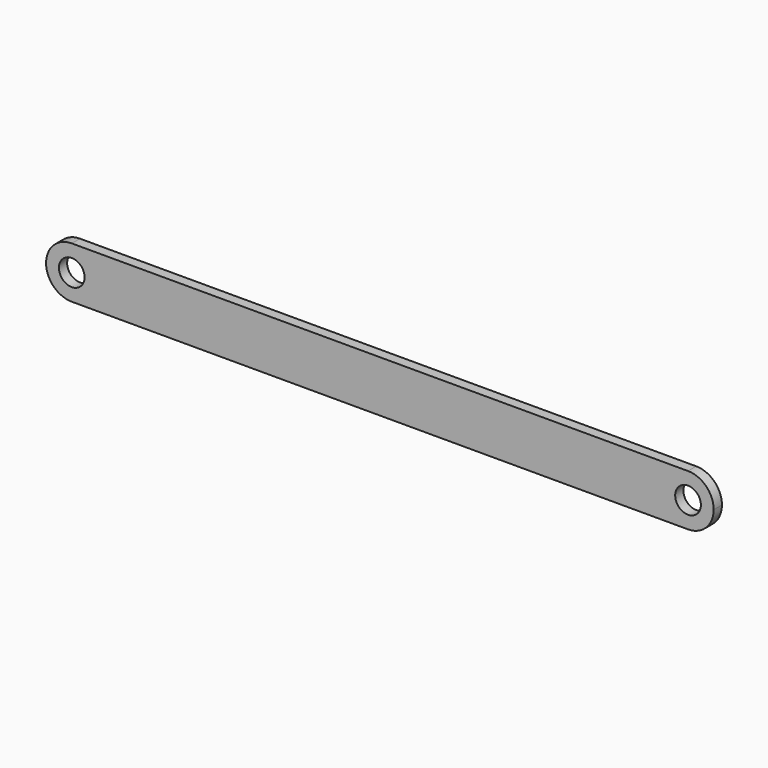
from build123d import *

# Parameters (mm, degrees)
F1_DEPTH = 2.54
F2_R     = 3.175
F3_DEPTH = 2.541


with BuildPart() as f1:
    # F0 (on Front) → F1 (new body)
    with BuildSketch(Plane.XZ):
        with BuildLine():
            ThreePointArc((-101.485908, 1.260738), (-99.626036, -3.22939), (-95.135908, -5.089262))
            Line((-95.135908, -5.089262), (57.264092, -5.089262))
            ThreePointArc((57.264092, -5.089262), (61.75422, -3.22939), (63.614092, 1.260738))
            ThreePointArc((63.614092, 1.260738), (61.75422, 5.750866), (57.264092, 7.610738))
            Line((57.264092, 7.610738), (-95.135908, 7.610738))
            ThreePointArc((-95.135908, 7.610738), (-99.626036, 5.750866), (-101.485908, 1.260738))
        make_face()
    extrude(amount=F1_DEPTH)

    # F2 (on face) → F3 (cut, through all)
    with BuildSketch(Plane.XZ.offset(2.54)):
        with Locations((-95.135908, 1.260738)):
            Circle(F2_R)
        with Locations((57.264092, 1.260738)):
            Circle(F2_R)
    extrude(amount=-F3_DEPTH, mode=Mode.SUBTRACT)


solid = f1.part
